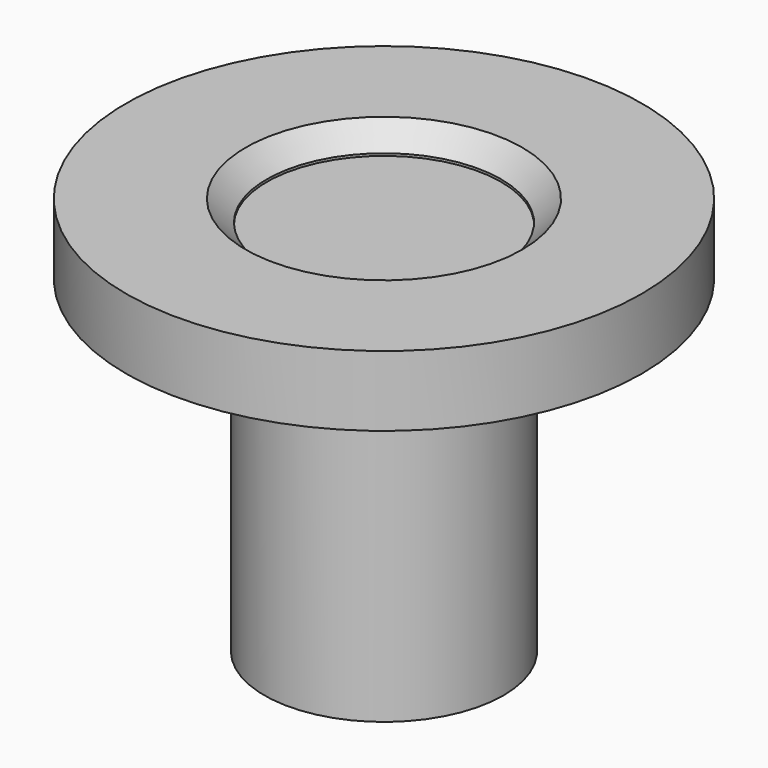
from build123d import *

# Parameters (mm, degrees)
SKETCH_R     = 11
PAD_DEPTH    = 3
SKETCH001_R  = 5
POCKET_DEPTH = 1
SKETCH002_R  = 5.1
PAD001_DEPTH = 14
CHAMFER_SIZE = 0.9


with BuildPart() as part:
    # Sketch → Pad (new body)
    with BuildSketch(Plane.XY):
        Circle(SKETCH_R)
    extrude(amount=PAD_DEPTH)

    # Sketch001 (on Face3 of Pad) → Pocket (cut)
    with BuildSketch(Plane.XY.offset(3)):
        Circle(SKETCH001_R)
    extrude(amount=-POCKET_DEPTH, mode=Mode.SUBTRACT)

    # Sketch002 (on Face2 of Pocket) → Pad001 (join)
    with BuildSketch(Plane(origin=(0, 0, 0), x_dir=(1, 0, 0), z_dir=(0, 0, -1))):
        Circle(SKETCH002_R)
    extrude(amount=PAD001_DEPTH)

    # Chamfer
    chamfer_edges = [part.edges().sort_by_distance(p)[0] for p in [
        (-5, 0, 3),
    ]]
    chamfer(chamfer_edges, length=CHAMFER_SIZE)


solid = part.part
